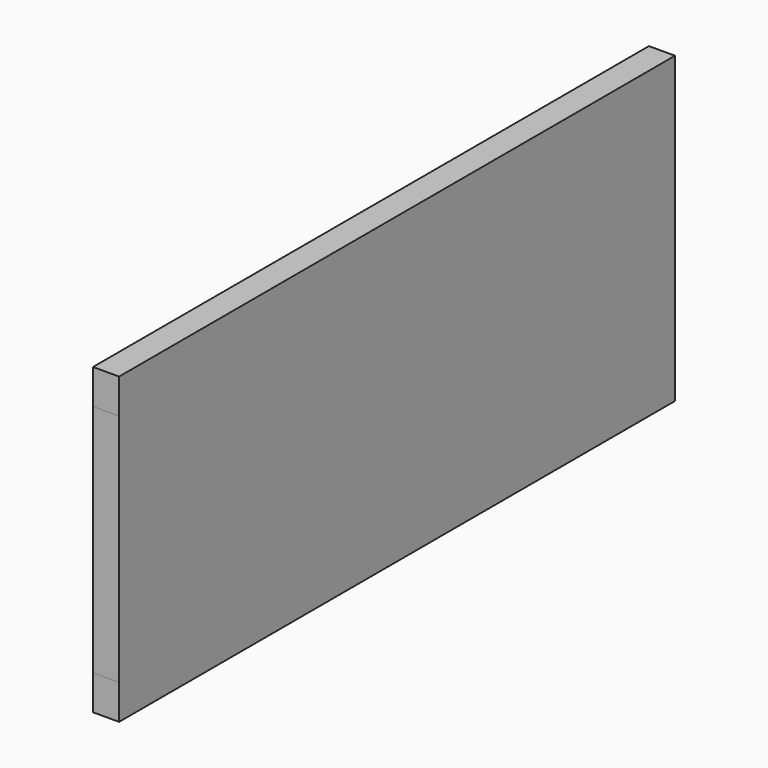
from build123d import *

# Parameters (mm, degrees)
F0_W     = 12.7
F0_H     = 171.45
F1_DEPTH = 6.35
F0_W_2   = 259.999907
F0_W_3   = 19.05
F2_DEPTH = 19.05


with BuildPart() as f1:
    # F0 (on Right) → F1 (new body)
    with BuildSketch(Plane.YZ):
        with Locations((12.349907, 0)):
            Rectangle(F0_W, F0_H)
        with Locations((44.099907, 0)):
            Rectangle(F0_W, F0_H)
    extrude(amount=-F1_DEPTH)


with BuildPart() as f2:
    # F0 (on Right) → F2 (new body)
    with BuildSketch(Plane.YZ):
        Polygon((50.449907, -85.725), (254, -85.725), (254, 111.125), (-254, 111.125), (-254, 85.725), (5.999907, 85.725), (18.699907, 85.725), (37.749907, 85.725), (50.449907, 85.725), align=None)
        with Locations((-124.000046, 0)):
            Rectangle(F0_W_2, F0_H)
        Polygon((-254, -111.125), (254, -111.125), (254, -85.725), (50.449907, -85.725), (37.749907, -85.725), (18.699907, -85.725), (5.999907, -85.725), (-254, -85.725), align=None)
        with Locations((12.349907, 0)):
            Rectangle(F0_W, F0_H)
        with Locations((28.224907, 0)):
            Rectangle(F0_W_3, F0_H)
        with Locations((44.099907, 0)):
            Rectangle(F0_W, F0_H)
    extrude(amount=F2_DEPTH)


solid = Compound([f1.part, f2.part])
